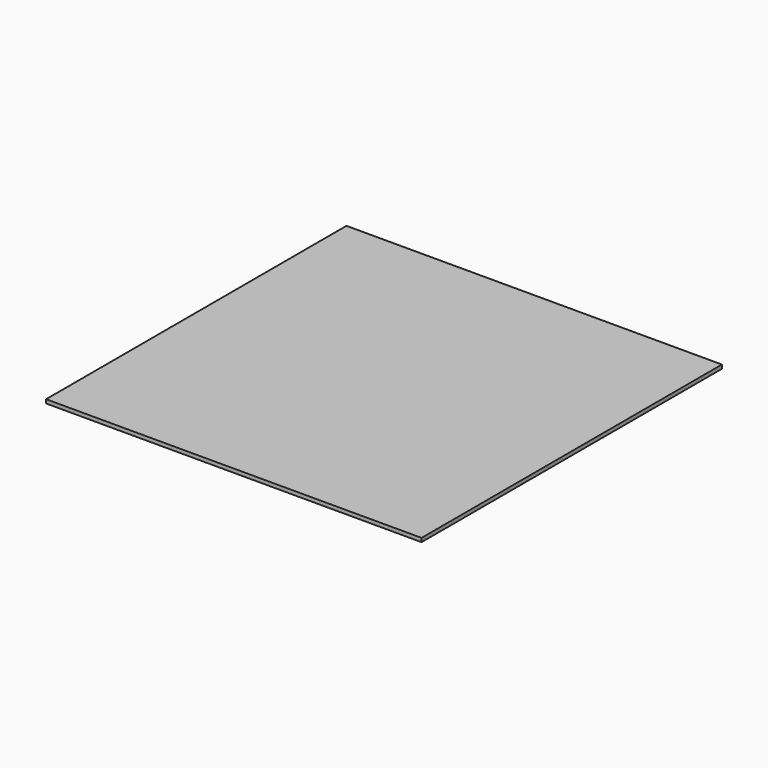
from build123d import *

# Parameters (mm, degrees)
SKETCH_W  = 500
SKETCH_H  = 500
PAD_DEPTH = 5


with BuildPart() as part:
    # Sketch → Pad (new body)
    with BuildSketch(Plane.XY):
        with Locations((250, 250)):
            Rectangle(SKETCH_W, SKETCH_H)
    extrude(amount=PAD_DEPTH)


solid = part.part
